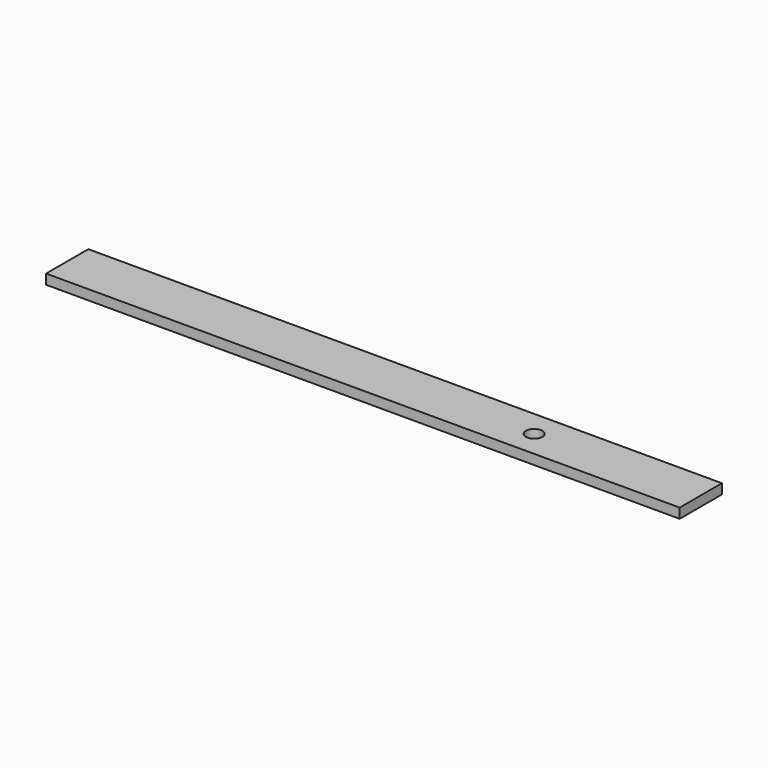
from build123d import *

# Parameters (mm, degrees)
F0_W     = 50.8
F0_H     = 9.525
F1_DEPTH = 304.8
F2_R     = 7.9375
F3_DEPTH = 9.526


with BuildPart() as f1:
    # F0 (on Right) → F1 (new body, symmetric)
    with BuildSketch(Plane.YZ):
        Rectangle(F0_W, F0_H)
        Rectangle(F0_W, F0_H)
    extrude(amount=F1_DEPTH, both=True)

    # F2 (on face) → F3 (cut, through all)
    with BuildSketch(Plane.XY.offset(4.7625)):
        with Locations((144.4625, 0)):
            Circle(F2_R)
    extrude(amount=-F3_DEPTH, mode=Mode.SUBTRACT)


solid = f1.part
